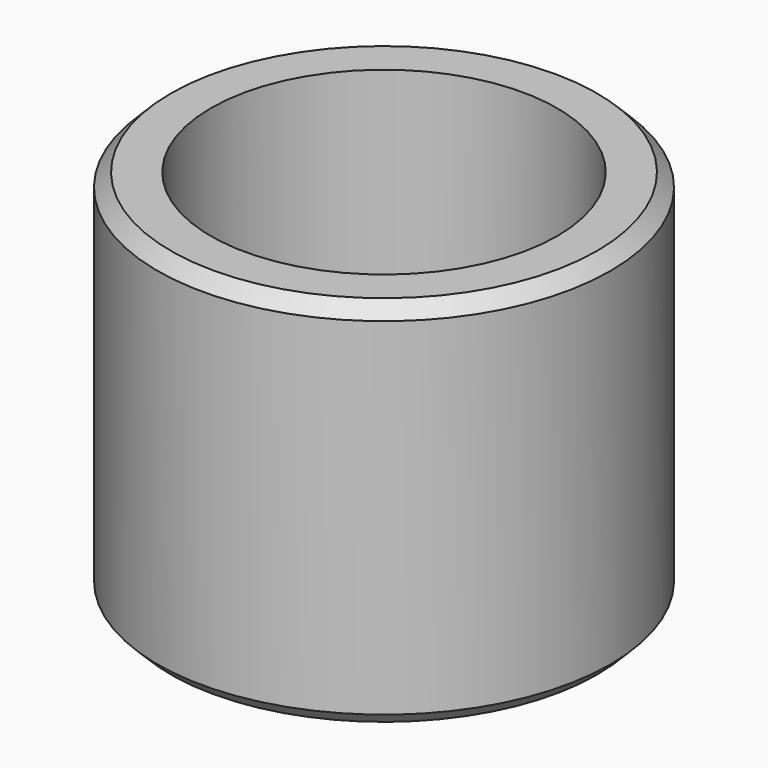
from build123d import *

# Parameters (mm, degrees)
SKETCH_R     = 4.25
SKETCH_R_2   = 3.25
PAD_DEPTH    = 7
CHAMFER_SIZE = 0.25


with BuildPart() as part:
    # Sketch → Pad (new body)
    with BuildSketch(Plane.XY):
        Circle(SKETCH_R)
        Circle(SKETCH_R_2, mode=Mode.SUBTRACT)
    extrude(amount=PAD_DEPTH)

    # Chamfer
    chamfer_edges = [part.edges().sort_by_distance(p)[0] for p in [
        (-4.25, 0, 7),
        (-4.25, 0, 0),
    ]]
    chamfer(chamfer_edges, length=CHAMFER_SIZE)


solid = part.part
